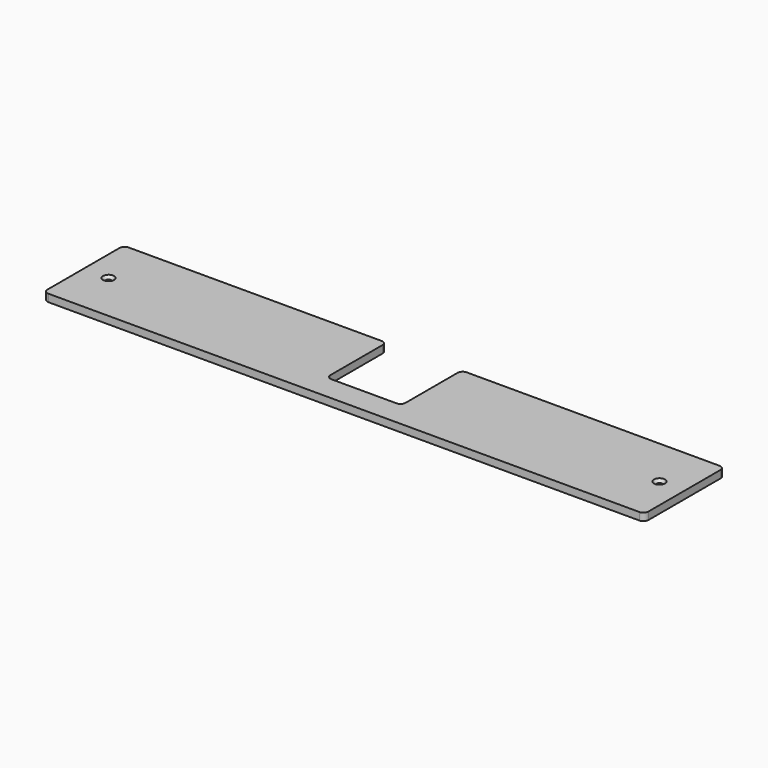
from build123d import *

# Parameters (mm, degrees)
PAD004_DEPTH        = 3
FILLET009_R         = 2
HOLE002_D           = 2.2
HOLE002_DEPTH       = 20
HOLE002_CSINK_D     = 4.4
HOLE002_CSINK_ANGLE = 90


with BuildPart() as part:
    # Sketch016 → Pad004 (new body)
    with BuildSketch(Plane.XY.offset(-1.4)):
        Polygon((120, 48.4), (120, 8.4), (-120, 8.4), (-120, 48.4), (-15, 48.4), (-15, 18.4), (15, 18.4), (15, 48.4), align=None)
    extrude(amount=PAD004_DEPTH)

    # Fillet009
    fillet009_edges = [part.edges().sort_by_distance(p)[0] for p in [
        (-120, 48.4, 0.1),
        (-120, 8.4, 0.1),
        (120, 8.4, 0.1),
        (120, 48.4, 0.1),
        (15, 48.4, 0.1),
        (-15, 48.4, 0.1),
        (-15, 18.4, 0.1),
        (15, 18.4, 0.1),
    ]]
    fillet(fillet009_edges, radius=FILLET009_R)

    # Hole002
    with Locations(Plane.XY.offset(1.6)):
        with Locations((-110, 28.4), (110, 28.4)):
            CounterSinkHole(HOLE002_D / 2, HOLE002_CSINK_D / 2, depth=HOLE002_DEPTH, counter_sink_angle=HOLE002_CSINK_ANGLE)


solid = part.part
